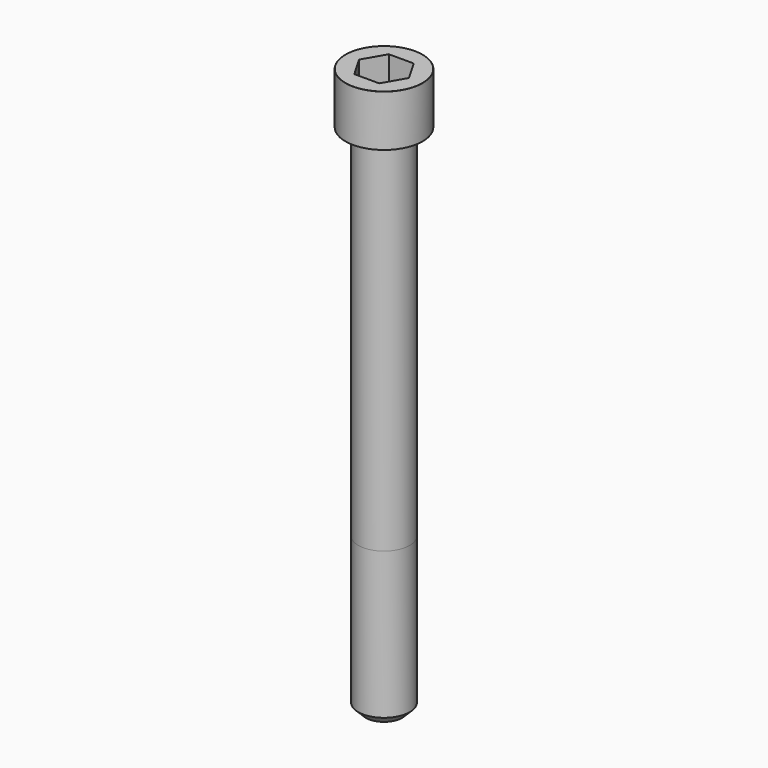
from build123d import *

# Parameters (mm, degrees)
POCKET_DEPTH = 10.07


with BuildPart() as part:
    # Sketch → Revolve (revolve)
    with BuildSketch(Plane.YZ):
        with BuildLine():
            Line((5.999, 0), (9, 0))
            Line((9, 0), (9, 11.97229))
            ThreePointArc((9, 11.97229), (8.991884, 11.991884), (8.97229, 12))
            Line((8.97229, 12), (0, 12))
            Line((0, -120), (0, 12))
            Line((4.25, -120), (0, -120))
            Line((6, -118.25), (4.25, -120))
            Line((6, -84), (6, -118.25))
            Line((5.999, 0), (6, -84))
        make_face()
    revolve(axis=Axis((0, 0, 0), (0, 0, 1)))

    # Sketch001 → Pocket (cut)
    with BuildSketch(Plane.XY.offset(12)):
        Polygon((5.813917, 0), (2.906959, 5.035), (-2.906959, 5.035), (-5.813917, 0), (-2.906959, -5.035), (2.906959, -5.035), align=None)
    extrude(amount=-POCKET_DEPTH, mode=Mode.SUBTRACT)


solid = part.part
